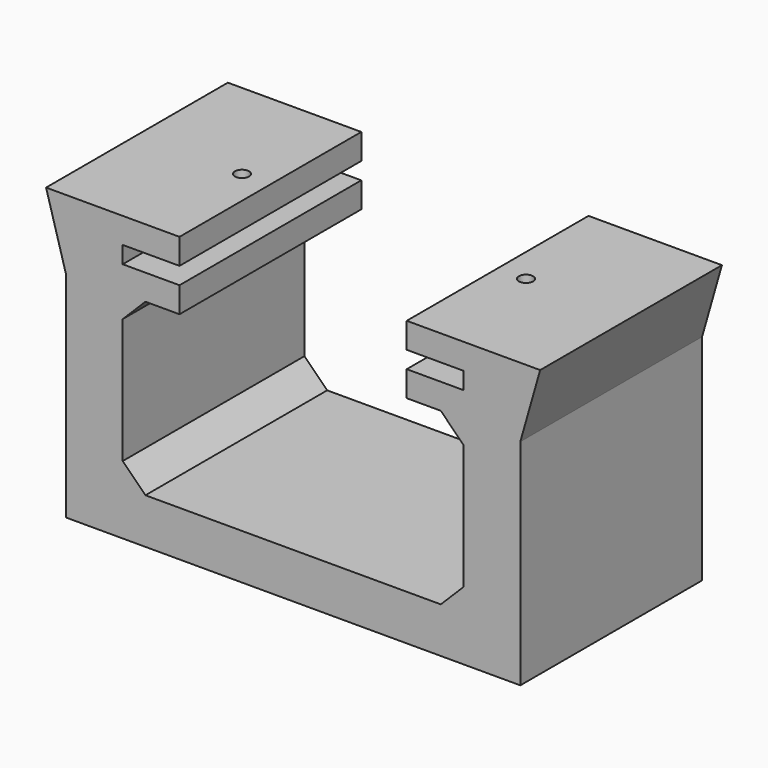
from build123d import *

# Parameters (mm, degrees)
F1_DEPTH = 50.8
F2_R     = 1.5875
F3_DEPTH = 5.715
F4_SIZE  = 5.08
F6_DEPTH = 50.8


with BuildPart() as f1:
    # F0 (on Front) → F1 (new body)
    with BuildSketch(Plane.XZ):
        Polygon((25.4, 57.785), (25.4, 63.5), (0, 63.5), (0, 0), (50.8, 0), (101.6, 0), (101.6, 63.5), (76.2, 63.5), (76.2, 57.785), (88.9, 57.785), (88.9, 53.975), (76.2, 53.975), (76.2, 48.26), (88.9, 48.26), (88.9, 10.16), (50.8, 10.16), (12.7, 10.16), (12.7, 48.26), (25.4, 48.26), (25.4, 53.975), (12.7, 53.975), (12.7, 57.785), align=None)
    extrude(amount=F1_DEPTH)

    # F2 (on face) → F3 (cut, through all)
    with BuildSketch(Plane.XY.offset(63.5)):
        with Locations((19.05, -25.4)):
            Circle(F2_R)
        with Locations((82.55, -25.4)):
            Circle(F2_R)
    extrude(amount=-F3_DEPTH, mode=Mode.SUBTRACT)

    # F4
    f4_edges = [f1.edges().sort_by_distance(p)[0] for p in [
        (12.7, -25.4, 10.16),
        (88.9, -25.4, 10.16),
        (12.7, -25.4, 48.26),
        (88.9, -25.4, 48.26),
    ]]
    chamfer(f4_edges, length=F4_SIZE)

    # F5 (on face) → F6 (join)
    with BuildSketch(Plane.XZ.offset(50.8)):
        Polygon((0, 47.963981), (0, 63.5), (-4.432204, 63.5), align=None)
        Polygon((101.6, 63.5), (101.6, 47.963981), (106.032204, 63.5), align=None)
    extrude(amount=-F6_DEPTH)


solid = f1.part
